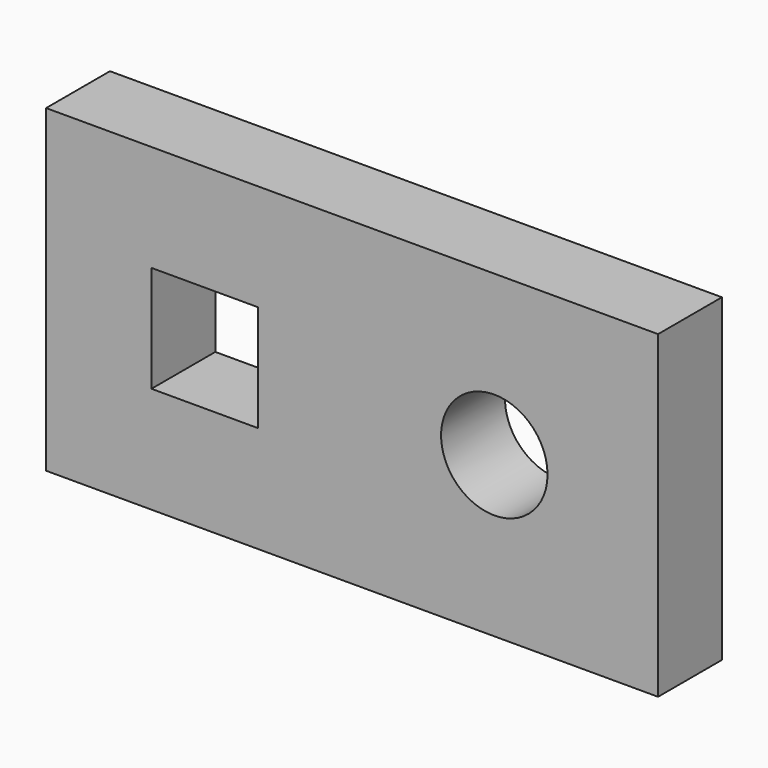
from build123d import *

# Parameters (mm, degrees)
F0_W     = 146.05
F0_H     = 76.2
F0_R     = 12.7
F1_DEPTH = 19.05


with BuildPart() as f1:
    # F0 (on Front) → F1 (new body)
    with BuildSketch(Plane.XZ):
        with Locations((-24.722666, 12.615334)):
            Rectangle(F0_W, F0_H)
        Polygon((-72.596788, -0.084666), (-72.596788, 12.615334), (-72.596788, 25.315334), (-47.196788, 25.315334), (-47.196788, -0.084666), align=None, mode=Mode.SUBTRACT)
        with Locations((9.222493, 12.615334)):
            Circle(F0_R, mode=Mode.SUBTRACT)
    extrude(amount=F1_DEPTH)


solid = f1.part
